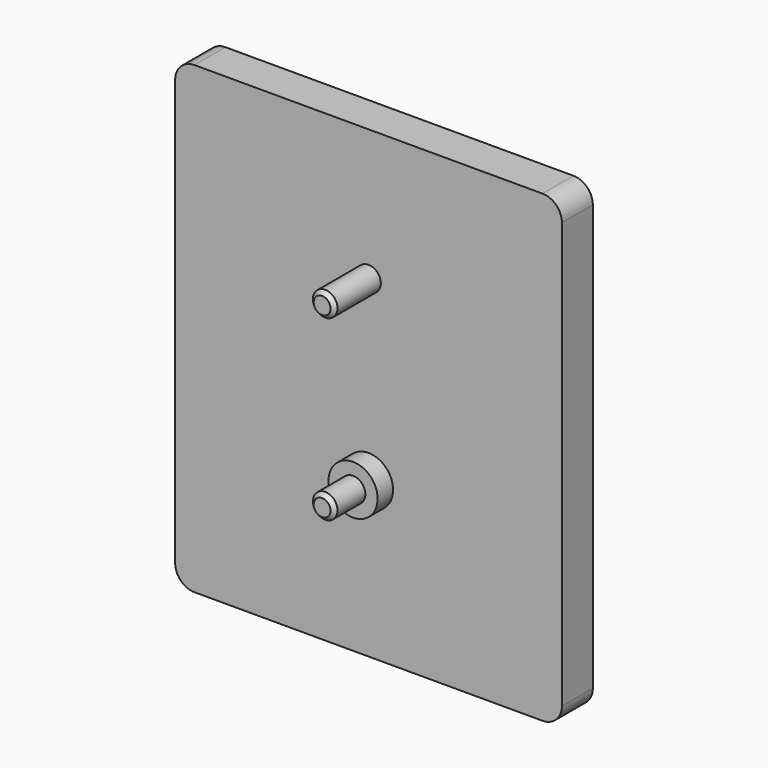
from build123d import *

# Parameters (mm, degrees)
F1_W     = 200
F1_H     = 240
F2_DEPTH = 20
F3_R     = 6.35
F4_DEPTH = 30
F5_SIZE  = 2
F6_R     = 10
F7_R     = 12.7
F8_DEPTH = 10


with BuildPart() as f2:
    # F1 (on Front) → F2 (new body)
    with BuildSketch(Plane.XZ):
        with Locations((0, 40)):
            Rectangle(F1_W, F1_H)
    extrude(amount=-F2_DEPTH)

    # F3 (on Front) → F4 (join)
    with BuildSketch(Plane.XZ):
        with Locations((0, 92)):
            Circle(F3_R)
        Circle(F3_R)
    extrude(amount=F4_DEPTH)

    # F5
    f5_edges = [f2.edges().sort_by_distance(p)[0] for p in [
        (-6.35, -30, 92),
        (-6.35, -30, 0),
    ]]
    chamfer(f5_edges, length=F5_SIZE)

    # F6
    f6_edges = [f2.edges().sort_by_distance(p)[0] for p in [
        (-100, 10, 160),
        (-100, 10, -80),
        (100, 10, -80),
        (100, 10, 160),
    ]]
    fillet(f6_edges, radius=F6_R)

    # F7 (on face) → F8 (join)
    with BuildSketch(Plane.XZ):
        Circle(F7_R)
    extrude(amount=F8_DEPTH)


solid = f2.part
